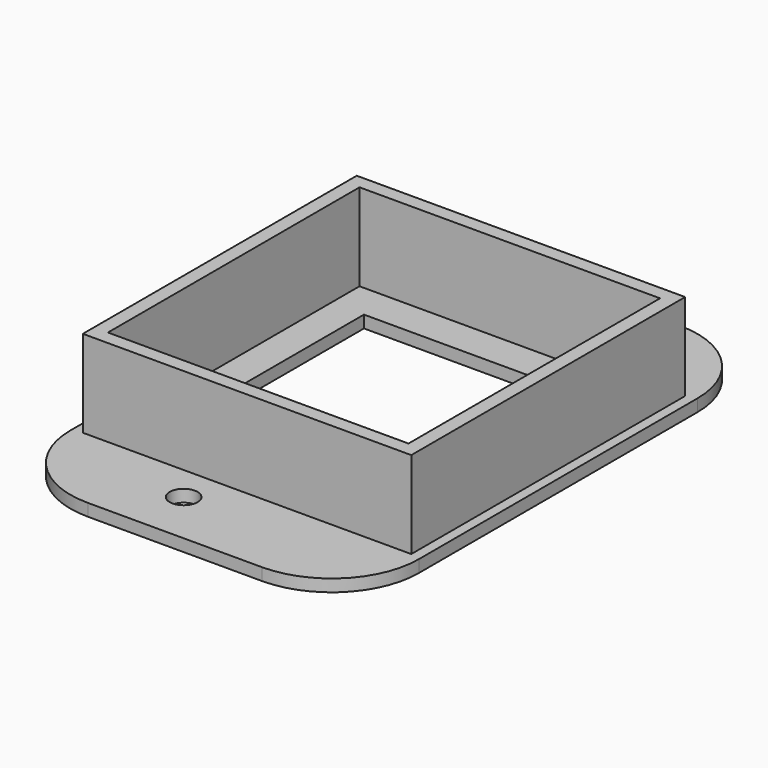
from build123d import *

# Parameters (mm, degrees)
F0_W     = 40
F0_H     = 60
F1_DEPTH = 1.4
F2_W     = 37.7
F2_H     = 39.3
F2_W_2   = 34.5
F2_H_2   = 36.1
F3_DEPTH = 10
F4_R     = 1.6
F4_W     = 27
F4_H     = 28
F5_DEPTH = 1.401
F6_R     = 10


with BuildPart() as f1:
    # F0 (on Top) → F1 (new body)
    with BuildSketch(Plane.XY):
        Rectangle(F0_W, F0_H)
    extrude(amount=F1_DEPTH)

    # F2 (on face) → F3 (join)
    with BuildSketch(Plane.XY.offset(1.4)):
        Rectangle(F2_W, F2_H)
        Rectangle(F2_W_2, F2_H_2, mode=Mode.SUBTRACT)
    extrude(amount=F3_DEPTH)

    # F4 (on face) → F5 (cut, through all)
    with BuildSketch(Plane.XY.offset(1.4)):
        with Locations((-4, 23.75)):
            Circle(F4_R)
        with Locations((-4, -23.75)):
            Circle(F4_R)
        Rectangle(F4_W, F4_H)
    extrude(amount=-F5_DEPTH, mode=Mode.SUBTRACT)

    # F6
    f6_edges = [f1.edges().sort_by_distance(p)[0] for p in [
        (-20, -30, 0.7),
        (20, -30, 0.7),
        (20, 30, 0.7),
        (-20, 30, 0.7),
    ]]
    fillet(f6_edges, radius=F6_R)


solid = f1.part
